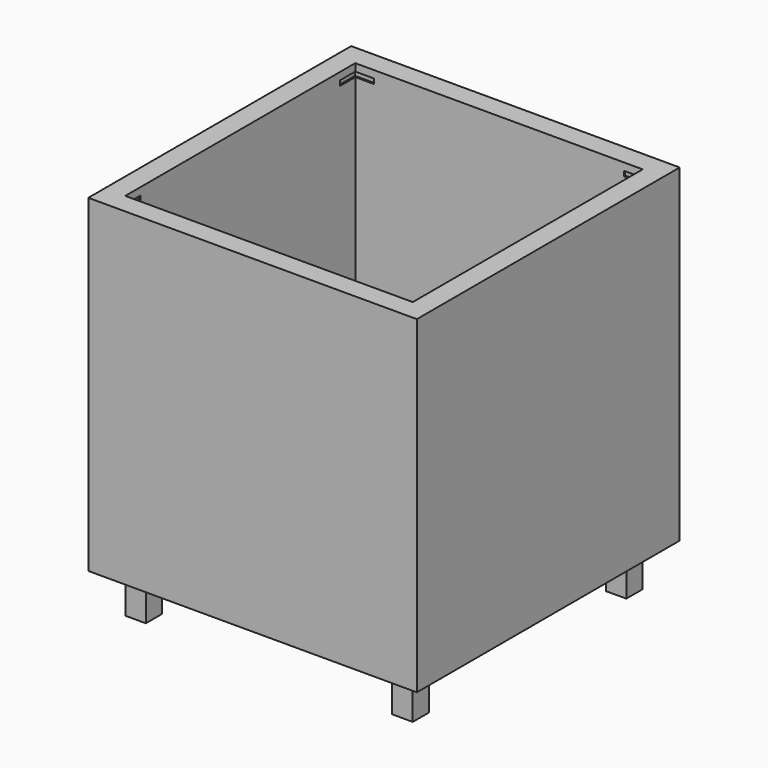
from build123d import *

# Parameters (mm, degrees)
F0_W      = 25.4
F0_H      = 25.4
F0_W_2    = 22.225
F0_H_2    = 22.225
F1_DEPTH  = 25.4
F2_W      = 1.5875
F2_H      = 1.5875
F3_DEPTH  = 3.175
F4_DEPTH  = 6.35
F5_SIZE   = 1.524
F5_2_SIZE = 1.524
F5_3_SIZE = 1.524
F5_4_SIZE = 1.524
F7_W      = 1.5875
F7_H      = 1.5875
F8_DEPTH  = 0.0635
F9_DEPTH  = 0.1905


with BuildPart() as f1:
    # F0 (on Top) → F1 (new body)
    with BuildSketch(Plane.XY):
        Rectangle(F0_W, F0_H)
        Rectangle(F0_W_2, F0_H_2, mode=Mode.SUBTRACT)
    extrude(amount=F1_DEPTH)

    # F7 (on offset) → F8 (cut, symmetric)
    with BuildSketch(Plane.XY.offset(24.638)):
        with Locations((-10.44575, 10.44575)):
            Rectangle(F7_W, F7_H)
    extrude(amount=F8_DEPTH, both=True, mode=Mode.SUBTRACT)

    # F7 (on offset) → F9 (cut, symmetric)
    with BuildSketch(Plane.XY.offset(24.638)):
        with Locations((-10.44575, 10.44575)):
            Rectangle(F7_W, F7_H)
        with Locations((10.44575, 10.44575)):
            Rectangle(F7_W, F7_H)
        with Locations((10.44575, -10.44575)):
            Rectangle(F7_W, F7_H)
        with Locations((-10.44575, -10.44575)):
            Rectangle(F7_W, F7_H)
    extrude(amount=F9_DEPTH, both=True, mode=Mode.SUBTRACT)


with BuildPart() as f3:
    # F2 (on face) → F3 (new body)
    with BuildSketch(Plane(origin=(0, 0, 0), x_dir=(1, 0, 0), z_dir=(0, 0, -1))):
        with Locations((-10.31875, -10.31875)):
            Rectangle(F2_W, F2_H)
    extrude(amount=F3_DEPTH)


with BuildPart() as f3b:
    # F2 (on face) → F3, piece 2 (new body)
    with BuildSketch(Plane(origin=(0, 0, 0), x_dir=(1, 0, 0), z_dir=(0, 0, -1))):
        with Locations((10.31875, -10.31875)):
            Rectangle(F2_W, F2_H)
    extrude(amount=F3_DEPTH)


with BuildPart() as f3c:
    # F2 (on face) → F3, piece 3 (new body)
    with BuildSketch(Plane(origin=(0, 0, 0), x_dir=(1, 0, 0), z_dir=(0, 0, -1))):
        with Locations((10.31875, 10.31875)):
            Rectangle(F2_W, F2_H)
    extrude(amount=F3_DEPTH)


with BuildPart() as f3d:
    # F2 (on face) → F3, piece 4 (new body)
    with BuildSketch(Plane(origin=(0, 0, 0), x_dir=(1, 0, 0), z_dir=(0, 0, -1))):
        with Locations((-10.31875, 10.31875)):
            Rectangle(F2_W, F2_H)
    extrude(amount=F3_DEPTH)


with BuildPart() as f4:
    # F4 (new): faces of the model
    f4_faces = [f3.part.faces().sort_by_distance(p)[0] for p in [
        (-10.31875, 10.31875, 0),
        (-10.31875, 10.31875, 0),
        (-10.31875, 10.31875, 0),
        (-10.31875, 10.31875, 0),
    ]]
    extrude(f4_faces, amount=F4_DEPTH)

    # F5#3
    f5_3_edges = [f4.edges().sort_by_distance(p)[0] for p in [
        (-10.31875, 9.525, 6.35),
        (-9.525, 10.31875, 6.35),
    ]]
    chamfer(f5_3_edges, length=F5_3_SIZE)


with BuildPart() as f4b:
    # F4#2 (new): faces of the model
    f4_2_faces = [f3b.part.faces().sort_by_distance(p)[0] for p in [
        (10.31875, 10.31875, 0),
        (10.31875, 10.31875, 0),
        (10.31875, 10.31875, 0),
        (10.31875, 10.31875, 0),
    ]]
    extrude(f4_2_faces, amount=F4_DEPTH)

    # F5#2
    f5_2_edges = [f4b.edges().sort_by_distance(p)[0] for p in [
        (10.31875, 9.525, 6.35),
        (9.525, 10.31875, 6.35),
    ]]
    chamfer(f5_2_edges, length=F5_2_SIZE)


with BuildPart() as f4c:
    # F4#3 (new): faces of the model
    f4_3_faces = [f3c.part.faces().sort_by_distance(p)[0] for p in [
        (10.31875, -10.31875, 0),
        (10.31875, -10.31875, 0),
        (10.31875, -10.31875, 0),
        (10.31875, -10.31875, 0),
    ]]
    extrude(f4_3_faces, amount=F4_DEPTH)

    # F5
    f5_edges = [f4c.edges().sort_by_distance(p)[0] for p in [
        (10.31875, -9.525, 6.35),
        (9.525, -10.31875, 6.35),
    ]]
    chamfer(f5_edges, length=F5_SIZE)


with BuildPart() as f4d:
    # F4#4 (new): faces of the model
    f4_4_faces = [f3d.part.faces().sort_by_distance(p)[0] for p in [
        (-10.31875, -10.31875, 0),
        (-10.31875, -10.31875, 0),
        (-10.31875, -10.31875, 0),
        (-10.31875, -10.31875, 0),
    ]]
    extrude(f4_4_faces, amount=F4_DEPTH)

    # F5#4
    f5_4_edges = [f4d.edges().sort_by_distance(p)[0] for p in [
        (-9.525, -10.31875, 6.35),
        (-10.31875, -9.525, 6.35),
    ]]
    chamfer(f5_4_edges, length=F5_4_SIZE)


solid = Compound([f1.part, f3.part, f3b.part, f3c.part, f3d.part, f4.part, f4b.part, f4c.part, f4d.part])
